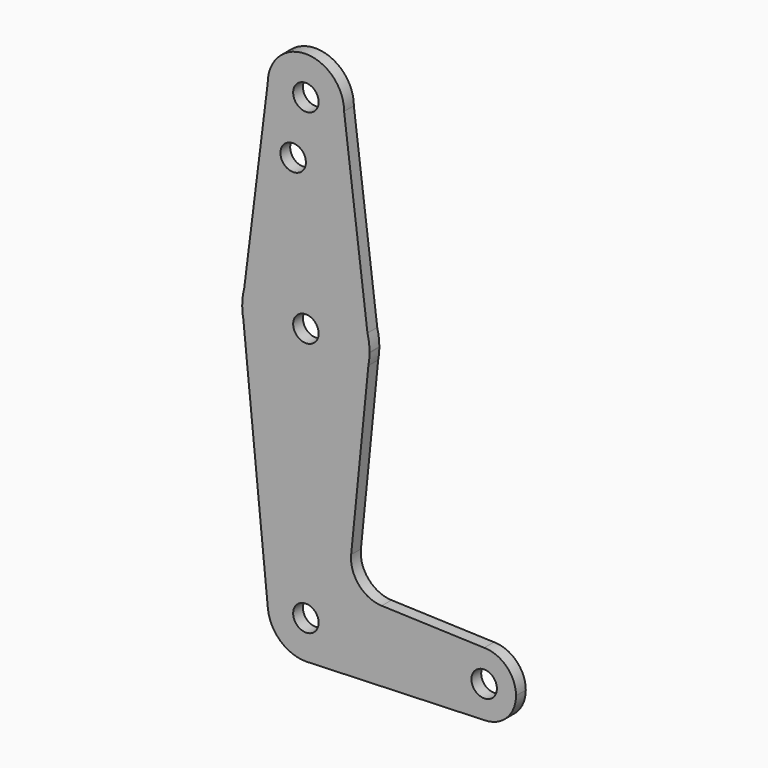
from build123d import *

# Parameters (mm, degrees)
F0_R     = 3.175
F1_DEPTH = 3.048


with BuildPart() as f1:
    # F0 (on Front) → F1 (new body)
    with BuildSketch(Plane.XZ):
        with BuildLine():
            ThreePointArc((-31.1909469509, 95.8659156474), (-21.6490796702, 86.3747855278), (-12.1410071164, 95.8997704864))
            ThreePointArc((-12.1410071164, 95.8997704864), (-21.6829345626, 105.424755445), (-31.1909469509, 95.8659156474))
        make_face()
        with Locations((-21.6660071164, 95.8997704864)):
            Circle(F0_R, mode=Mode.SUBTRACT)
        with BuildLine():
            Line((-6.31115512, 49.1301730924), (-12.1410071164, 95.8997704864))
            ThreePointArc((-12.1410071164, 95.8997704864), (-21.6490796702, 86.3747855278), (-31.1909469509, 95.8659156474))
            Line((-31.1909469509, 95.8659156474), (-37.019532067, 49.1352254286))
            ThreePointArc((-37.019532067, 49.1352254286), (-21.6633952611, 60.9747702715), (-6.31115512, 49.1301730924))
        make_face()
        with Locations((-24.8410071164, 81.6249704864)):
            Circle(F0_R, mode=Mode.SUBTRACT)
        with BuildLine():
            Line((-5.7916039996, 44.9621090074), (-6.31115512, 49.1301730924))
            ThreePointArc((-6.31115512, 49.1301730924), (-21.6633952611, 60.9747702715), (-37.019532067, 49.1352254286))
            Line((-37.019532067, 49.1352254286), (-37.5403854701, 44.959282461))
            Line((-37.5403854701, 44.959282461), (-37.2570066685, 42.1103963096))
            ThreePointArc((-37.2570066685, 42.1103963096), (-21.6790175277, 29.2247758177), (-6.0799284106, 42.0848450185))
            Line((-6.0799284106, 42.0848450185), (-5.7916039996, 44.9621090074))
        make_face()
        with Locations((-21.6660071164, 45.0997704864)):
            Circle(F0_R, mode=Mode.SUBTRACT)
        with BuildLine():
            ThreePointArc((-5.7910071164, 45.0997704864), (-5.9215811116, 47.131684554), (-6.31115512, 49.1301730924))
            Line((-6.31115512, 49.1301730924), (-5.7916039996, 44.9621090074))
            ThreePointArc((-5.7916039996, 44.9621090074), (-5.7911563379, 45.0309390999), (-5.7910071164, 45.0997704864))
        make_face()
        with BuildLine():
            Line((-37.5403854701, 44.959282461), (-37.019532067, 49.1352254286))
            ThreePointArc((-37.019532067, 49.1352254286), (-37.4189468774, 47.0645895335), (-37.5403854701, 44.959282461))
        make_face()
        with BuildLine():
            ThreePointArc((-6.0799284106, 42.0848450185), (-5.8701171085, 43.5168984587), (-5.7916039996, 44.9621090074))
            Line((-5.7916039996, 44.9621090074), (-6.0799284106, 42.0848450185))
        make_face()
        with BuildLine():
            Line((-37.2570066685, 42.1103963096), (-37.5403854701, 44.959282461))
            ThreePointArc((-37.5403854701, 44.959282461), (-37.4630492371, 43.5284381735), (-37.2570066685, 42.1103963096))
        make_face()
        with BuildLine():
            Line((-10.3786188368, -0.8129003229), (-6.0799284106, 42.0848450185))
            ThreePointArc((-6.0799284106, 42.0848450185), (-21.6790175277, 29.2247758177), (-37.2570066685, 42.1103963096))
            Line((-37.2570066685, 42.1103963096), (-31.1442323888, -19.3430289014))
            ThreePointArc((-31.1442323888, -19.3430289014), (-22.1379866077, -8.8869303824), (-12.1410071164, -18.4002295136))
            ThreePointArc((-12.1410071164, -18.4002295136), (-14.695450385, -24.8915286019), (-20.9886635685, -27.9011152996))
            Line((-20.9886635685, -27.9011152996), (23.0663981581, -26.3327041282))
            ThreePointArc((23.0663981581, -26.3327041282), (14.8477493294, -18.5414545058), (22.7839928836, -10.4627295136))
            Line((22.7839928836, -10.4627295136), (-2.7517919267, -9.550737199))
            ThreePointArc((-2.7517919267, -9.550737199), (-8.4575476247, -6.8335509856), (-10.3786188368, -0.8129003229))
        make_face()
        with BuildLine():
            ThreePointArc((-12.1410071164, -18.4002295136), (-22.1379866077, -8.8869303824), (-31.1442323888, -19.3430289014))
            ThreePointArc((-31.1442323888, -19.3430289014), (-28.0591855447, -25.4608877396), (-21.6660071164, -27.9252295136))
            Line((-21.6660071164, -27.9252295136), (-20.9886635685, -27.9011152996))
            ThreePointArc((-20.9886635685, -27.9011152996), (-14.695450385, -24.8915286019), (-12.1410071164, -18.4002295136))
        make_face()
        with Locations((-21.6660071164, -18.4002295136)):
            Circle(F0_R, mode=Mode.SUBTRACT)
        with BuildLine():
            Line((-20.9886635685, -27.9011152996), (-21.6660071164, -27.9252295136))
            ThreePointArc((-21.6660071164, -27.9252295136), (-21.327120787, -27.9191990511), (-20.9886635685, -27.9011152996))
        make_face()
        with BuildLine():
            ThreePointArc((30.7214928836, -18.4002295136), (28.3966529592, -12.787569438), (22.7839928836, -10.4627295136))
            ThreePointArc((22.7839928836, -10.4627295136), (14.8477493294, -18.5414545058), (23.0663981581, -26.3327041282))
            ThreePointArc((23.0663981581, -26.3327041282), (28.4956256675, -23.9121399984), (30.7214928836, -18.4002295136))
        make_face()
        with Locations((22.7839928836, -18.4002295136)):
            Circle(F0_R, mode=Mode.SUBTRACT)
    extrude(amount=F1_DEPTH)


solid = f1.part
